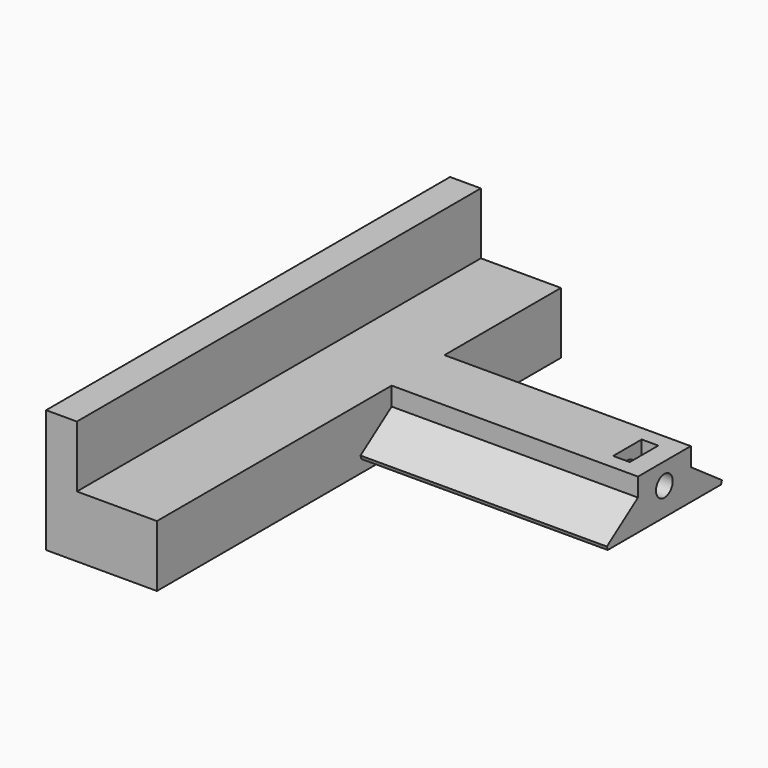
from build123d import *

# Parameters (mm, degrees)
PAD007_DEPTH               = 2.7
CYLINDER1015_R             = 1.7
CYLINDER1015_DEPTH         = 100
CLONE008_PITCH_ANGLE       = 90
PAD006_DEPTH               = 82
PAD009_DEPTH               = 40
CHAMFER011_SIZE            = 1
CHAMFER011_PLACEMENT_ANGLE = 180


with BuildPart() as clone_of_m3nuthousingmaster:
    # Sketch008 → Pad007 (new body)
    with BuildSketch(Plane(origin=(65, 30, 1.5), x_dir=(0, 0, 1), z_dir=(-1, 0, 0))):
        Polygon((0, 0), (1.674316, 2.9), (21.674316, 2.9), (21.674316, -2.9), (1.674316, -2.9), align=None)
    extrude(amount=PAD007_DEPTH)


with BuildPart() as clone_of_m3nuthousingmaster_1:
    # Clone009 placement: moved
    add(clone_of_m3nuthousingmaster.part.moved(Location((-117, -0.99996, 1.5))))


with BuildPart() as fusion021:
    # Cylinder1015 → Cylinder1015 (new body)
    with BuildSketch(Plane.XY):
        Circle(CYLINDER1015_R)
    extrude(amount=CYLINDER1015_DEPTH)


with BuildPart() as fusion021_1:
    # Clone008 pitch: moved
    add(fusion021.part.rotate(Axis((0, 0, 0), (0, 1, 0)), CLONE008_PITCH_ANGLE))


with BuildPart() as fusion021_2:
    # Clone008 placement: moved
    add(fusion021_1.part.moved(Location((-58, 29, 6.5))))

    # Fusion021: union Clone of M3NutHousingMaster
    add(clone_of_m3nuthousingmaster_1.part)


with BuildPart() as pad006:
    # Sketch007 → Pad006 (new body)
    with BuildSketch(Plane(origin=(0, 0, 0), x_dir=(-1, 0, 0), z_dir=(0, 1, 0))):
        Polygon((0, 0), (0, 20), (5, 20), (5, 10), (18, 10), (18, 0), align=None)
    extrude(amount=PAD006_DEPTH)


with BuildPart() as lateraladjust:
    # Sketch010 → Pad009 (new body)
    with BuildSketch(Plane(origin=(-18, 29, 2), x_dir=(0, 1, 0), z_dir=(1, 0, 0))):
        Polygon((-12.5, 0), (-5.35926, 5), (-5.35926, 8), (5.35926, 8), (5.35926, 5), (12.5, 0), align=None)
    extrude(amount=-PAD009_DEPTH)

    # Fusion034: union Pad006
    add(pad006.part)

    # Cut025: cut Fusion021
    add(fusion021_2.part, mode=Mode.SUBTRACT)

    # Chamfer011
    chamfer011_edges = [lateraladjust.edges().sort_by_distance(p)[0] for p in [
        (-38, 16.5, 2),
        (-38, 41.5, 2),
    ]]
    chamfer(chamfer011_edges, length=CHAMFER011_SIZE)


with BuildPart() as lateraladjust_1:
    # Chamfer011 placement: moved
    add(lateraladjust.part.moved(Location((-37.7, 79, 44))).rotate(Axis((-37.7, 79, 44), (0, 0, 1)), CHAMFER011_PLACEMENT_ANGLE))


solid = lateraladjust_1.part
